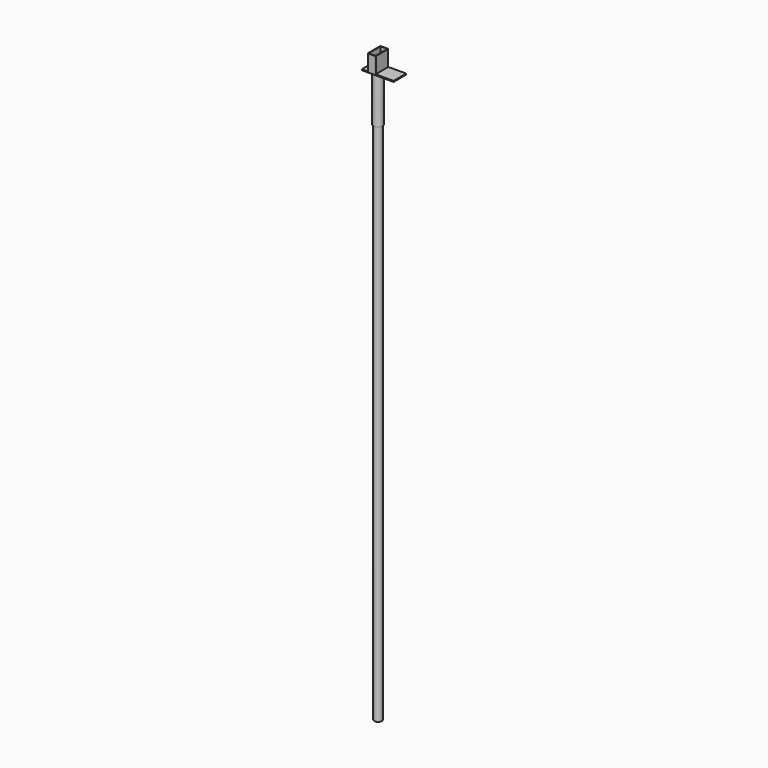
from build123d import *

# Parameters (mm, degrees)
F0_R      = 36.5125
F0_R_2    = 31.75
F1_DEPTH  = 5486.4
F2_R      = 44.45
F2_R_2    = 38.9636
F3_DEPTH  = 457.2
F4_W      = 304.8
F4_H      = 152.4
F5_DEPTH  = 9.525
F6_W      = 76.2
F6_H      = 152.4
F7_DEPTH  = 152.4
F8_R      = 4.7625
F9_W      = 66.675
F9_H      = 142.875
F10_DEPTH = 5648.326


with BuildPart() as f1:
    # F0 (on Top) → F1 (new body)
    with BuildSketch(Plane.XY):
        Circle(F0_R)
        Circle(F0_R_2, mode=Mode.SUBTRACT)
    extrude(amount=F1_DEPTH)


with BuildPart() as f3:
    # F2 (on face) → F3 (new body)
    with BuildSketch(Plane.XY.offset(5486.4)):
        Circle(F2_R)
        Circle(F2_R_2, mode=Mode.SUBTRACT)
    extrude(amount=-F3_DEPTH)


with BuildPart() as f5:
    # F4 (on face) → F5 (new body)
    with BuildSketch(Plane.XY.offset(5486.4)):
        with Locations((57.15, 0)):
            Rectangle(F4_W, F4_H)
    extrude(amount=F5_DEPTH)


with BuildPart() as f7:
    # F6 (on face) → F7 (new body)
    with BuildSketch(Plane.XY.offset(5495.925)):
        Rectangle(F6_W, F6_H)
    extrude(amount=F7_DEPTH)

    # F8
    f8_edges = [f7.edges().sort_by_distance(p)[0] for p in [
        (-38.1, -76.2, 5572.125),
        (38.1, -76.2, 5572.125),
        (-38.1, 76.2, 5572.125),
        (38.1, 76.2, 5572.125),
    ]]
    fillet(f8_edges, radius=F8_R)

    # F9 (on face) → F10 (cut, through all)
    with BuildSketch(Plane.XY.offset(5648.325)):
        Rectangle(F9_W, F9_H)
    extrude(amount=-F10_DEPTH, mode=Mode.SUBTRACT)


solid = Compound([f1.part, f3.part, f5.part, f7.part])
